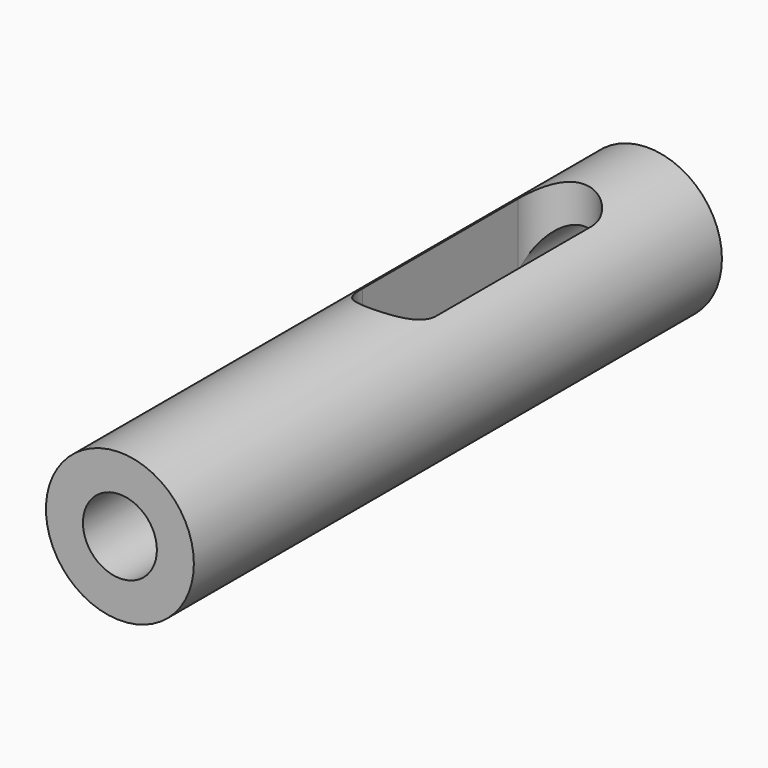
from build123d import *

# Parameters (mm, degrees)
F0_R     = 9.525
F0_R_2   = 4.7625
F1_DEPTH = 85
F3_DEPTH = 9.526


with BuildPart() as f1:
    # F0 (on Front) → F1 (new body)
    with BuildSketch(Plane.XZ):
        Circle(F0_R)
        Circle(F0_R_2, mode=Mode.SUBTRACT)
    extrude(amount=F1_DEPTH)

    # F2 (on Top) → F3 (cut, through all)
    with BuildSketch(Plane.XY):
        with BuildLine():
            ThreePointArc((4.7625, -15), (0, -10.2375), (-4.7625, -15))
            Line((-4.7625, -15), (4.7625, -15))
        make_face()
        with BuildLine():
            ThreePointArc((4.7625, -15), (0, -19.7625), (-4.7625, -15))
            Line((-4.7625, -15), (-4.7625, -40))
            ThreePointArc((-4.7625, -40), (0, -35.2375), (4.7625, -40))
            Line((4.7625, -40), (4.7625, -15))
        make_face()
        with BuildLine():
            Line((4.7625, -15), (-4.7625, -15))
            ThreePointArc((-4.7625, -15), (0, -19.7625), (4.7625, -15))
        make_face()
        with BuildLine():
            ThreePointArc((4.7625, -40), (0, -35.2375), (-4.7625, -40))
            Line((-4.7625, -40), (4.7625, -40))
        make_face()
        with BuildLine():
            Line((4.7625, -40), (-4.7625, -40))
            ThreePointArc((-4.7625, -40), (0, -44.7625), (4.7625, -40))
        make_face()
    extrude(amount=F3_DEPTH, mode=Mode.SUBTRACT)


solid = f1.part
